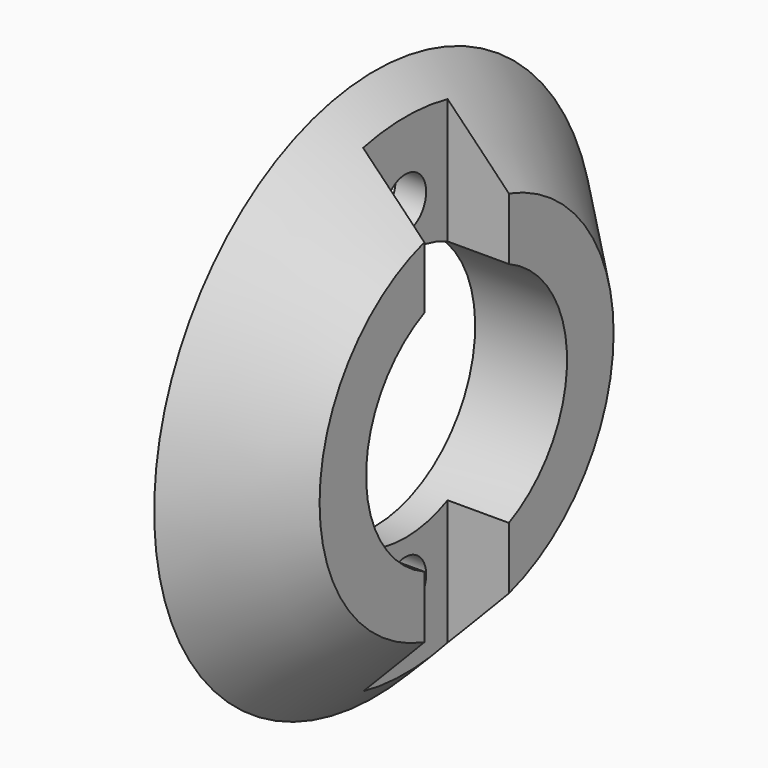
from build123d import *

# Parameters (mm, degrees)
CYLINDER_R           = 2.95
CYLINDER_DEPTH       = 7
CYLINDER001_R        = 1.7
CYLINDER001_DEPTH    = 30
CLONE062_PITCH_ANGLE = -90
CLONE061_PITCH_ANGLE = -90
BOX246_W             = 10
BOX246_H             = 6.9
BOX246_DEPTH         = 34
CYLINDER1003_R       = 8.2
CYLINDER1003_DEPTH   = 15
CLONE058_PITCH_ANGLE = 90


with BuildPart() as m3bolthead:
    # Cylinder → Cylinder (new body)
    with BuildSketch(Plane.XY):
        Circle(CYLINDER_R)
    extrude(amount=CYLINDER_DEPTH)


with BuildPart() as m3bolt:
    # Cylinder001 → Cylinder001 (new body)
    with BuildSketch(Plane.XY.offset(6)):
        Circle(CYLINDER001_R)
    extrude(amount=CYLINDER001_DEPTH)

    # Fusion: union M3BoltHead
    add(m3bolthead.part)


with BuildPart() as clone_of_m3bolt022:
    # Clone062 base: copy of M3Bolt
    add(m3bolt.part)


with BuildPart() as clone_of_m3bolt022_1:
    # Clone062 pitch: moved
    add(clone_of_m3bolt022.part.rotate(Axis((0, 0, 0), (0, 1, 0)), CLONE062_PITCH_ANGLE))


with BuildPart() as clone_of_m3bolt022_2:
    # Clone062 placement: moved
    add(clone_of_m3bolt022_1.part.moved(Location((36, 0, -11))))


with BuildPart() as clone_of_m3bolt021:
    # Clone061 base: copy of M3Bolt
    add(m3bolt.part)


with BuildPart() as clone_of_m3bolt021_1:
    # Clone061 pitch: moved
    add(clone_of_m3bolt021.part.rotate(Axis((0, 0, 0), (0, 1, 0)), CLONE061_PITCH_ANGLE))


with BuildPart() as clone_of_m3bolt021_2:
    # Clone061 placement: moved
    add(clone_of_m3bolt021_1.part.moved(Location((36, 0, 11))))


with BuildPart() as cube010:
    # Box246 → Box246 (new body)
    with BuildSketch(Plane(origin=(2, -3.45, -17), x_dir=(1, 0, 0), z_dir=(0, 0, 1))):
        with Locations((5, 3.45)):
            Rectangle(BOX246_W, BOX246_H)
    extrude(amount=BOX246_DEPTH)


with BuildPart() as fusion021:
    # Cylinder1003 → Cylinder1003 (new body)
    with BuildSketch(Plane.XY):
        Circle(CYLINDER1003_R)
    extrude(amount=CYLINDER1003_DEPTH)


with BuildPart() as fusion021_1:
    # Clone058 pitch: moved
    add(fusion021.part.rotate(Axis((0, 0, 0), (0, 1, 0)), CLONE058_PITCH_ANGLE))


with BuildPart() as fusion021_2:
    # Clone058 placement: moved
    add(fusion021_1.part)

    # Fusion021: union Clone of M3Bolt022, Clone of M3Bolt021, Cube010
    add(clone_of_m3bolt022_2.part)
    add(clone_of_m3bolt021_2.part)
    add(cube010.part)


with BuildPart() as obj1:
    # Sketch016 → Revolution003 (revolve)
    with BuildSketch(Plane.XY):
        Polygon((0, 0), (0, 18), (6, 12), (6, 0), align=None)
    revolve(axis=Axis((0, 0, 0), (1, 0, 0)))

    # Cut020: cut Fusion021
    add(fusion021_2.part, mode=Mode.SUBTRACT)


solid = obj1.part
